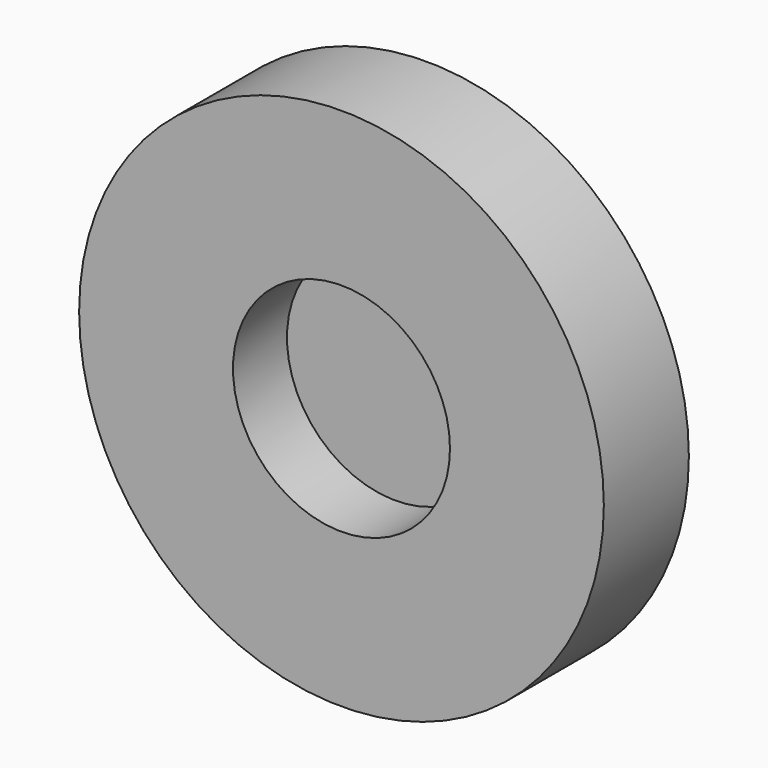
from build123d import *

# Parameters (mm, degrees)
F0_R     = 2.475
F0_R_2   = 1.69
F1_DEPTH = 1.33
F2_R     = 7.775
F3_DEPTH = 3.15
F4_R     = 3.215
F5_DEPTH = 2


with BuildPart() as f1:
    # F0 (on Front) → F1 (new body)
    with BuildSketch(Plane.XZ):
        Circle(F0_R)
        Circle(F0_R_2, mode=Mode.SUBTRACT)
    extrude(amount=F1_DEPTH)

    # F2 (on face) → F3 (join)
    with BuildSketch(Plane.XZ.offset(1.33)):
        Circle(F2_R)
    extrude(amount=F3_DEPTH)

    # F4 (on face) → F5 (cut)
    with BuildSketch(Plane.XZ.offset(4.48)):
        Circle(F4_R)
    extrude(amount=-F5_DEPTH, mode=Mode.SUBTRACT)


solid = f1.part
